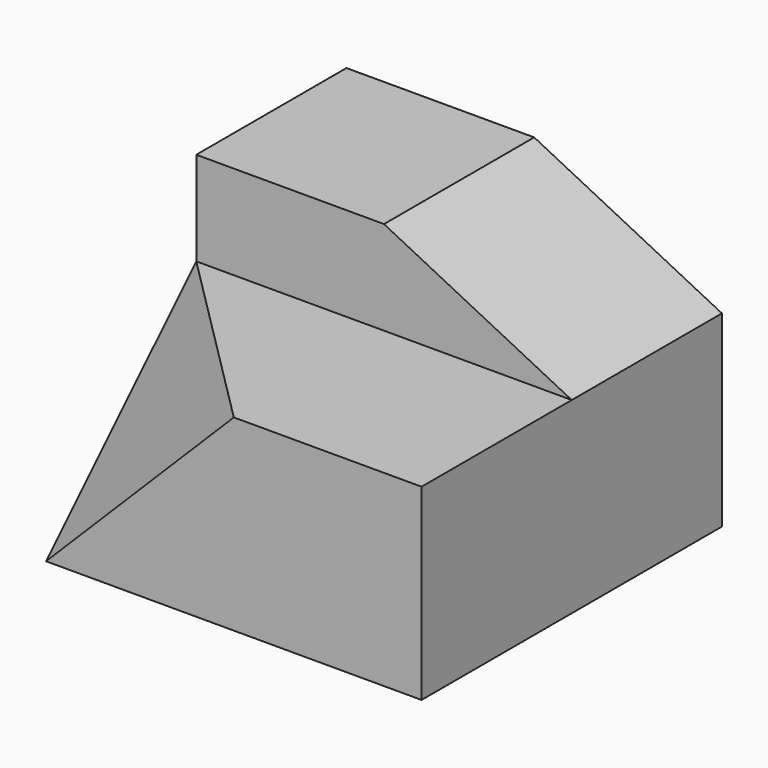
from build123d import *

# Parameters (mm, degrees)
F3_DEPTH = 127
F2_W     = 127
F2_H     = 127
F4_DEPTH = 127
F8_DEPTH = 1092.2


with BuildPart() as f3:
    # F0 (on Front) → F3 (new body)
    with BuildSketch(Plane.XZ):
        Polygon((0, 190.5), (0, 127), (254, 127), (127, 190.5), align=None)
    extrude(amount=F3_DEPTH)

    # F2 (on Top) → F4 (join)
    with BuildSketch(Plane.XY):
        Polygon((127, -127), (0, -127), (127, -254), (254, -254), (254, -127), align=None)
        with Locations((190.5, -63.5)):
            Rectangle(F2_W, F2_H)
        with Locations((63.5, -63.5)):
            Rectangle(F2_W, F2_H)
        Polygon((127, -254), (0, -127), (0, -254), align=None)
    extrude(amount=F4_DEPTH)

    # F7 (on 3pt) → F8 (cut)
    with BuildSketch(Plane(origin=(-84.6666666667, -84.6666666667, 84.6666666667), x_dir=(0.8164965809, -0.4082482905, 0.4082482905), z_dir=(-0.5773502692, -0.5773502692, 0.5773502692))):
        Polygon((103.6950657778, 0), (103.6950657778, -179.6051224214), (259.2376644446, -89.8025612107), align=None)
    extrude(amount=F8_DEPTH, mode=Mode.SUBTRACT)


solid = f3.part
